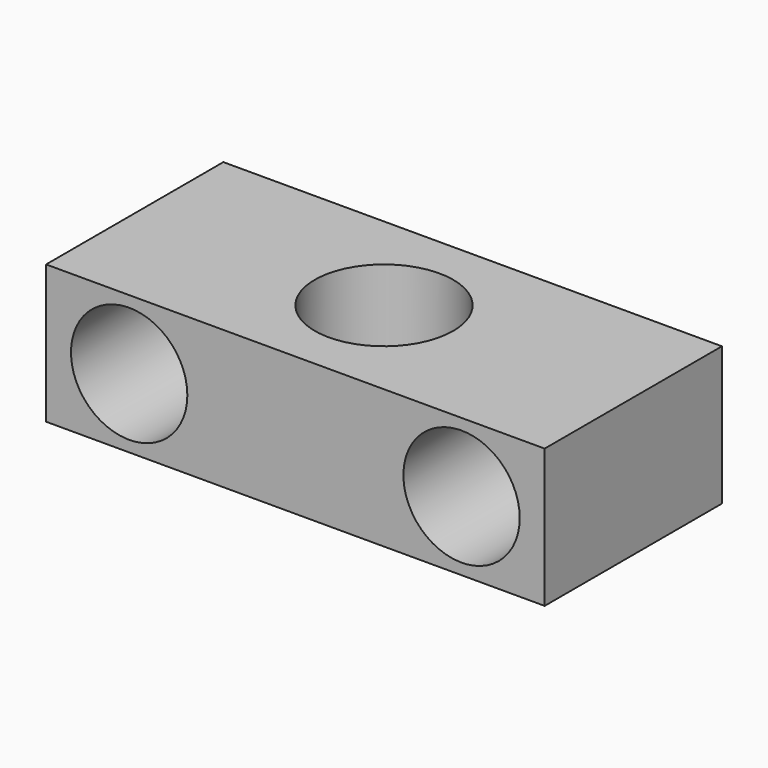
from build123d import *

# Parameters (mm, degrees)
F0_W     = 90
F0_H     = 40
F0_R     = 12.5
F1_DEPTH = 25
F2_R     = 10.5
F3_DEPTH = 40.001


with BuildPart() as f1:
    # F0 (on Top) → F1 (new body)
    with BuildSketch(Plane.XY):
        Rectangle(F0_W, F0_H)
        Circle(F0_R, mode=Mode.SUBTRACT)
    extrude(amount=F1_DEPTH)

    # F2 (on face) → F3 (cut, through all)
    with BuildSketch(Plane.XZ.offset(20)):
        with Locations((30, 12.5)):
            Circle(F2_R)
        with Locations((-30, 12.5)):
            Circle(F2_R)
    extrude(amount=-F3_DEPTH, mode=Mode.SUBTRACT)


solid = f1.part
